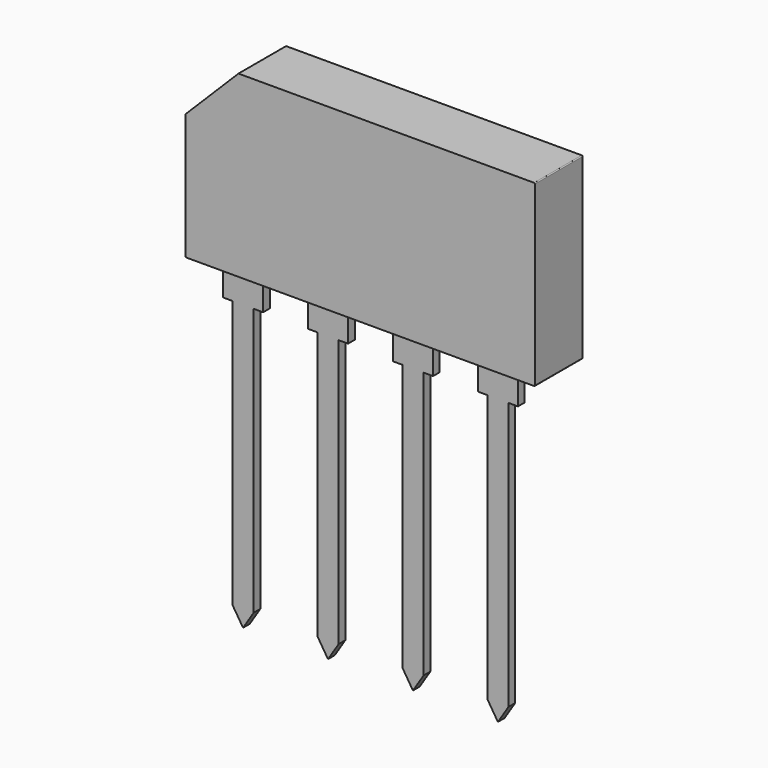
from build123d import *

# Parameters (mm, degrees)
PAD_DEPTH         = 0.25
PAD001_DEPTH      = 2.54
PAD001_DEPTH_BACK = 1.02


with BuildPart() as pad:
    # Sketch → Pad (new body, symmetric)
    with BuildSketch(Plane.XZ):
        Polygon((-1.2, 2), (-1.2, 0), (-0.635, 0), (-0.635, -16), (0, -17), (0.635, -16), (0.635, 0), (1.2, 0), (1.2, 2), align=None)
        Polygon((14.605, 0), (14.605, -16), (15.24, -17), (15.875, -16), (15.875, 0), (16.44, 0), (16.44, 2), (14.04, 2), (14.04, 0), align=None)
        Polygon((3.88, 2), (3.88, 0), (4.445, 0), (4.445, -16), (5.08, -17), (5.715, -16), (5.715, 0), (6.28, 0), (6.28, 2), align=None)
        Polygon((8.96, 2), (8.96, -0.056881), (9.525, -0.056881), (9.525, -16), (10.16, -17), (10.795, -16), (10.795, -0.056881), (11.36, -0.056881), (11.36, 2), align=None)
    extrude(amount=PAD_DEPTH, both=True)


with BuildPart() as obj1:
    # Sketch001 → Pad001 (new body, two sides)
    with BuildSketch(Plane(origin=(15.24, 0, 0), x_dir=(-1, 0, 0), z_dir=(0, 1, 0))) as pad001_sk:
        with BuildLine():
            Line((-2.78, 1.9), (18.02, 1.9))
            ThreePointArc((18.02, 1.9), (18.055355, 1.914645), (18.07, 1.95))
            Line((18.07, 1.95), (18.07, 9.43))
            Line((18.07, 9.43), (14.9, 12.6))
            Line((14.9, 12.6), (-2.78, 12.6))
            ThreePointArc((-2.78, 12.6), (-2.815355, 12.585355), (-2.83, 12.55))
            Line((-2.83, 12.55), (-2.83, 1.95))
            ThreePointArc((-2.83, 1.95), (-2.815355, 1.914645), (-2.78, 1.9))
        make_face()
    extrude(amount=PAD001_DEPTH)
    extrude(pad001_sk.sketch, amount=-PAD001_DEPTH_BACK)

    add(pad.part)


solid = obj1.part
